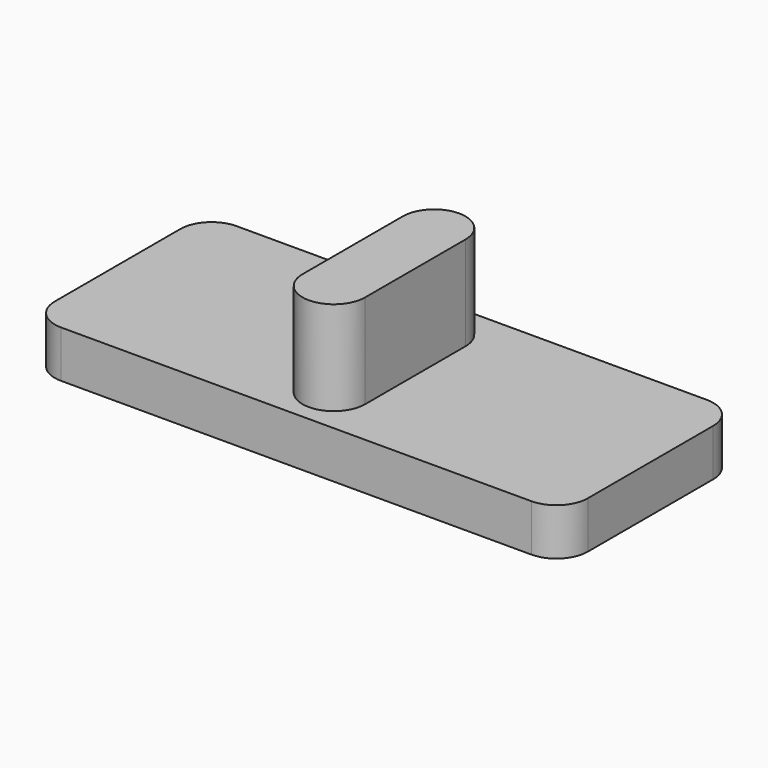
from build123d import *

# Parameters (mm, degrees)
F0_W     = 17
F0_H     = 7
F1_DEPTH = 1.5
F2_W     = 2
F2_H     = 4
F3_DEPTH = 3
F4_R     = 1


with BuildPart() as f1:
    # F0 (on Top) → F1 (new body)
    with BuildSketch(Plane.XY):
        Rectangle(F0_W, F0_H)
    extrude(amount=F1_DEPTH)

    # F2 (on face) → F3 (join)
    with BuildSketch(Plane.XY.offset(1.5)):
        with BuildLine():
            ThreePointArc((-1, -2), (0, -3), (1, -2))
            Line((1, -2), (-1, -2))
        make_face()
        Rectangle(F2_W, F2_H)
        with BuildLine():
            Line((-1, 2), (1, 2))
            ThreePointArc((1, 2), (0, 3), (-1, 2))
        make_face()
    extrude(amount=F3_DEPTH)

    # F4
    f4_edges = [f1.edges().sort_by_distance(p)[0] for p in [
        (-8.5, 3.5, 0.75),
        (-8.5, -3.5, 0.75),
        (8.5, 3.5, 0.75),
        (8.5, -3.5, 0.75),
    ]]
    fillet(f4_edges, radius=F4_R)


solid = f1.part
